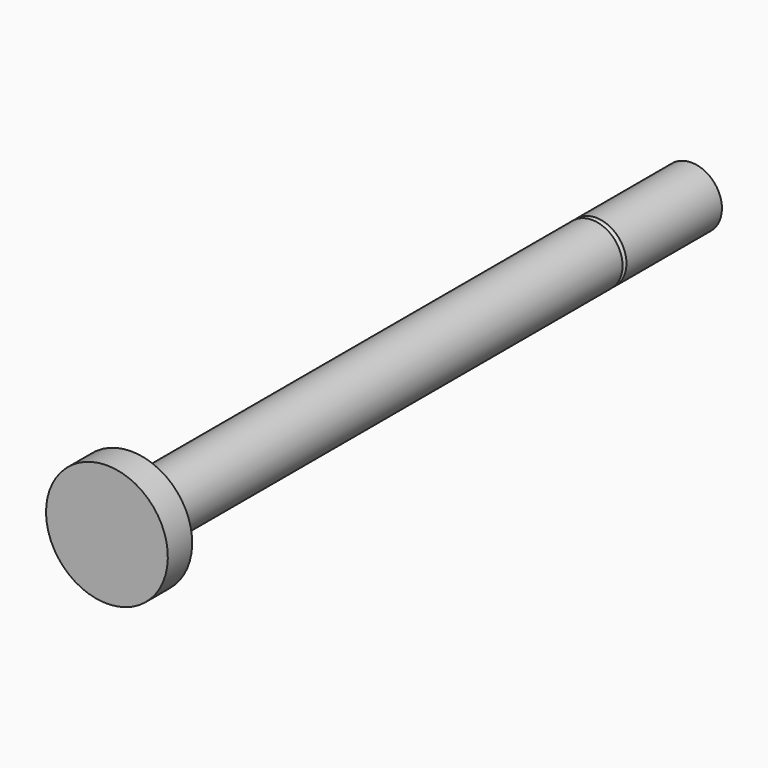
from build123d import *

# Parameters (mm, degrees)
F2_R = 1.27


with BuildPart() as f1:
    # F0 (on Right) → F1 (revolve)
    with BuildSketch(Plane.YZ):
        Polygon((-43.106165, 0), (-36.756165, 0), (-36.756165, 6.35), (-36.756165, 12.7), (-43.106165, 12.7), align=None)
        with BuildLine():
            Line((-36.756165, 6.35), (-36.756165, 0))
            Line((-36.756165, 0), (109.293835, 0))
            Line((109.293835, 0), (109.293835, 6.35))
            Line((109.293835, 6.35), (84.401835, 6.35))
            ThreePointArc((84.401835, 6.35), (83.893835, 5.842), (83.385835, 6.35))
            Line((83.385835, 6.35), (-36.756165, 6.35))
        make_face()
    revolve(axis=Axis((0, 36.268835, 0), (0, 1, 0)))

    # F2
    f2_edges = [f1.edges().sort_by_distance(p)[0] for p in [
        (0, -36.756165, -6.35),
    ]]
    fillet(f2_edges, radius=F2_R)


solid = f1.part
